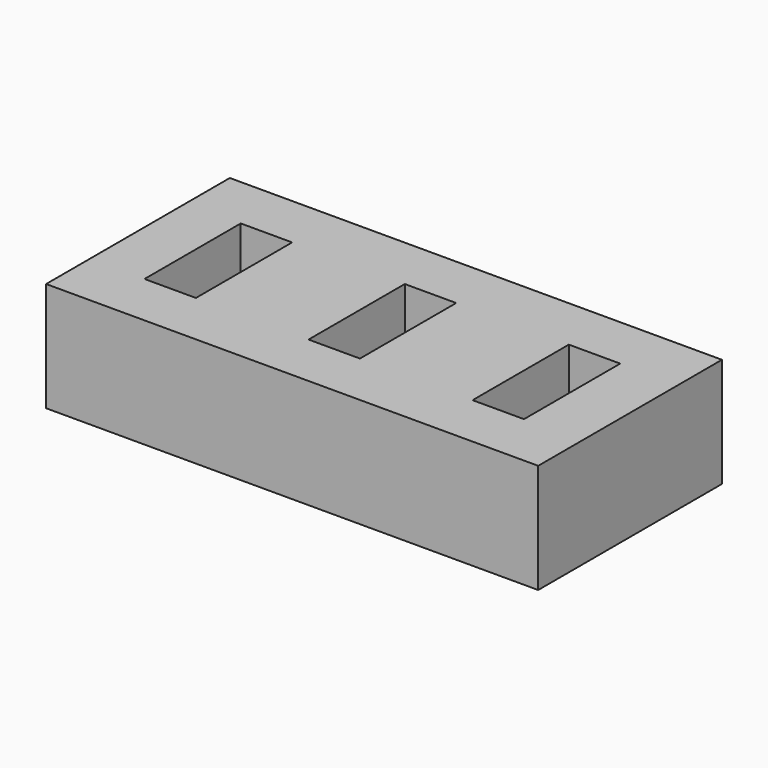
from build123d import *

# Parameters (mm, degrees)
BOX001_W     = 4.7
BOX001_H     = 11
BOX001_DEPTH = 12
BOX_W        = 4.7
BOX_H        = 11
BOX_DEPTH    = 12
BOX002_W     = 4.7
BOX002_H     = 11
BOX002_DEPTH = 12
BOX003_W     = 45
BOX003_H     = 21
BOX003_DEPTH = 10


with BuildPart() as box001:
    # Box001 → Box001 (new body)
    with BuildSketch(Plane(origin=(15, 0, 0), x_dir=(1, 0, 0), z_dir=(0, 0, 1))):
        with Locations((2.35, 5.5)):
            Rectangle(BOX001_W, BOX001_H)
    extrude(amount=BOX001_DEPTH)


with BuildPart() as box:
    # Box → Box (new body)
    with BuildSketch(Plane.XY):
        with Locations((2.35, 5.5)):
            Rectangle(BOX_W, BOX_H)
    extrude(amount=BOX_DEPTH)


with BuildPart() as ranuras:
    # Box002 → Box002 (new body)
    with BuildSketch(Plane(origin=(30, 0, 0), x_dir=(1, 0, 0), z_dir=(0, 0, 1))):
        with Locations((2.35, 5.5)):
            Rectangle(BOX002_W, BOX002_H)
    extrude(amount=BOX002_DEPTH)

    # Fusion: union Box001, Box
    add(box001.part)
    add(box.part)


with BuildPart() as ranuras_1:
    # Fusion placement: moved
    add(ranuras.part.moved(Location((5, 5, 3))))


with BuildPart() as porta_pendrives:
    # Box003 → Box003 (new body)
    with BuildSketch(Plane.XY):
        with Locations((22.5, 10.5)):
            Rectangle(BOX003_W, BOX003_H)
    extrude(amount=BOX003_DEPTH)

    # Cut: cut Ranuras
    add(ranuras_1.part, mode=Mode.SUBTRACT)


solid = porta_pendrives.part
